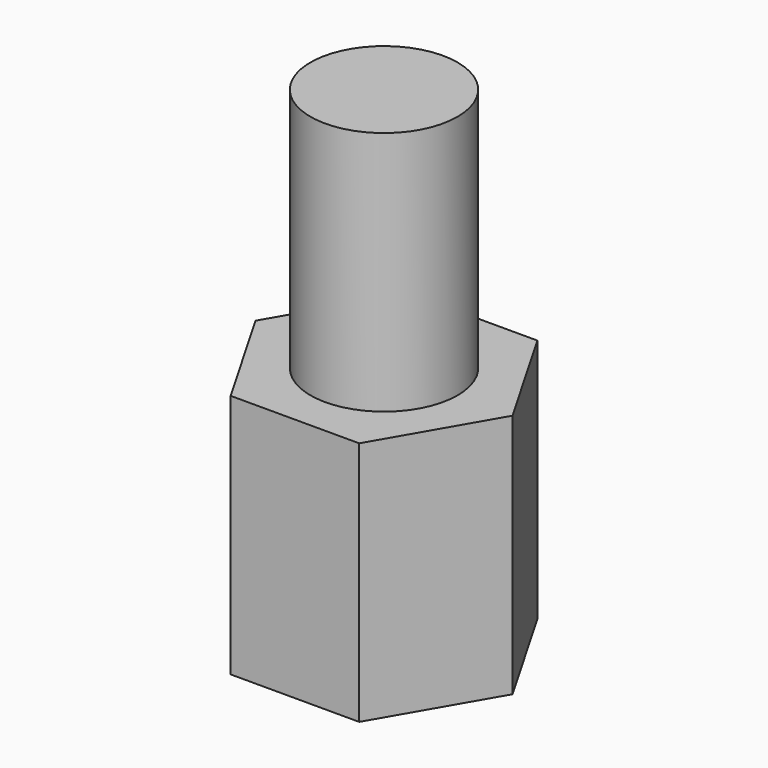
from build123d import *

# Parameters (mm, degrees)
F0_R     = 1.5
F1_DEPTH = 10
F2_DEPTH = 5
F3_DEPTH = 3


with BuildPart() as f1:
    # F0 (on Top) → F1 (new body)
    with BuildSketch(Plane.XY):
        Circle(F0_R)
    extrude(amount=F1_DEPTH)

    # F0 (on Top) → F2 (join)
    with BuildSketch(Plane.XY):
        Polygon((1.31021, 2.26935), (-1.31021, 2.26935), (-2.62042, 0), (-1.31021, -2.26935), (1.31021, -2.26935), (2.62042, 0), align=None)
        Circle(F0_R, mode=Mode.SUBTRACT)
    extrude(amount=F2_DEPTH)

    # F0 (on Top) → F3 (cut)
    with BuildSketch(Plane.XY):
        Circle(F0_R)
    extrude(amount=F3_DEPTH, mode=Mode.SUBTRACT)


solid = f1.part
